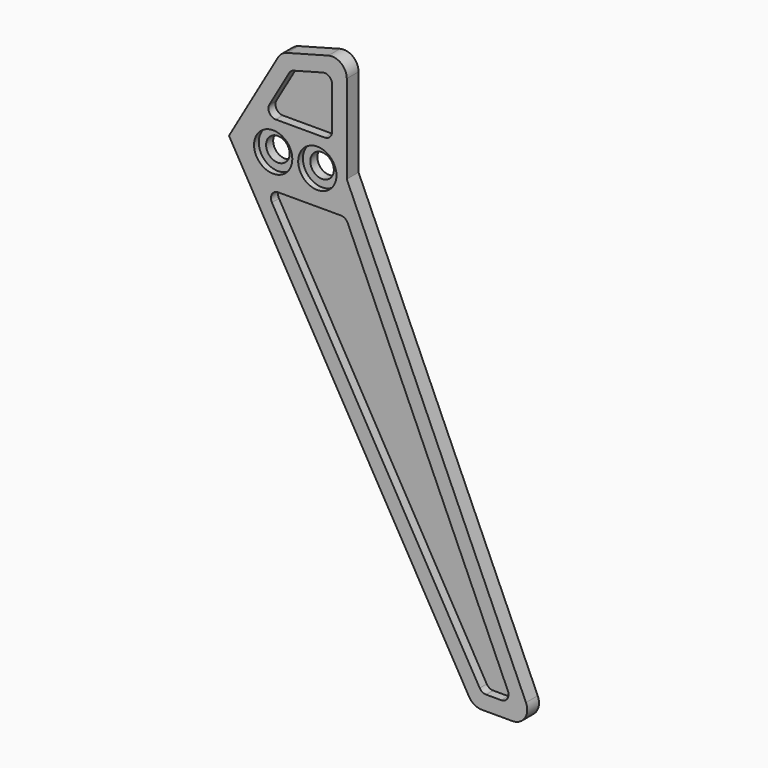
from build123d import *

# Parameters (mm, degrees)
F1_DEPTH      = 1
F2_R          = 0.8
F3_DEPTH      = 25
F3_DEPTH_BACK = 25
F5_START      = -1.001
F5_DEPTH      = 23.999
F6_R          = 1
F8_DEPTH      = 0.6
F9_R          = 0.5
F10_R         = 1.3
F11_DEPTH     = 0.4


with BuildPart() as f1:
    # F0 (on Front) → F1 (new body)
    with BuildSketch(Plane.XZ):
        Polygon((3.5355339059, 6.123724357), (0, 0), (16.5950652481, -28.7434961647), (20.7974290086, -28.7434961647), (8, 0), (8, 7.3199744415), align=None)
    extrude(amount=F1_DEPTH)

    # F2 (on face) → F3 (cut, two sides)
    with BuildSketch(Plane.XZ.offset(1)) as f3_sk:
        with Locations((3, 0)):
            Circle(F2_R)
        with Locations((6, 0)):
            Circle(F2_R)
    extrude(amount=-F3_DEPTH, mode=Mode.SUBTRACT)
    extrude(f3_sk.sketch, amount=F3_DEPTH_BACK, mode=Mode.SUBTRACT)

    # F4 (on face) → F5 (cut)
    with BuildSketch(Plane.XZ.offset(1).offset(F5_START)):
        Polygon((8, -3.5337661579), (3.9760127691, -3.5337661579), (16.3063901135, -26.2434961647), (18.5897210168, -26.2434961647), align=None)
    extrude(amount=-F5_DEPTH, mode=Mode.SUBTRACT)

    # F6
    f6_edges = [f1.edges().sort_by_distance(p)[0] for p in [
        (16.595065, -0.5, -28.743496),
        (20.797429, -0.5, -28.743496),
        (3.535534, -0.5, 6.123724),
        (8, -0.5, 7.319974),
    ]]
    fillet(f6_edges, radius=F6_R)

    # F7 (on face) → F8 (cut)
    with BuildSketch(Plane.XZ.offset(1)):
        Polygon((2.3094010768, 2), (7, 2), (7, 6.0167490687), (4.1944525285, 5.2650048894), align=None)
        Polygon((17.1724155173, -27.7434961647), (19.2575640448, -27.7434961647), (7.9293896977, -2.3), (2.4826061575, -2.3), align=None)
    extrude(amount=-F8_DEPTH, mode=Mode.SUBTRACT)

    # F9
    f9_edges = [f1.edges().sort_by_distance(p)[0] for p in [
        (2.309401, -0.7, 2),
        (7, -0.7, 2),
        (7, -0.7, 6.016749),
        (4.194453, -0.7, 5.265005),
        (7.92939, -0.7, -2.3),
        (2.482606, -0.7, -2.3),
        (19.257564, -0.7, -27.743496),
        (17.172416, -0.7, -27.743496),
    ]]
    fillet(f9_edges, radius=F9_R)

    # F10 (on face) → F11 (cut)
    with BuildSketch(Plane.XZ.offset(1)):
        with Locations((3, 0)):
            Circle(F10_R)
        with Locations((6, 0)):
            Circle(F10_R)
    extrude(amount=-F11_DEPTH, mode=Mode.SUBTRACT)


solid = f1.part
